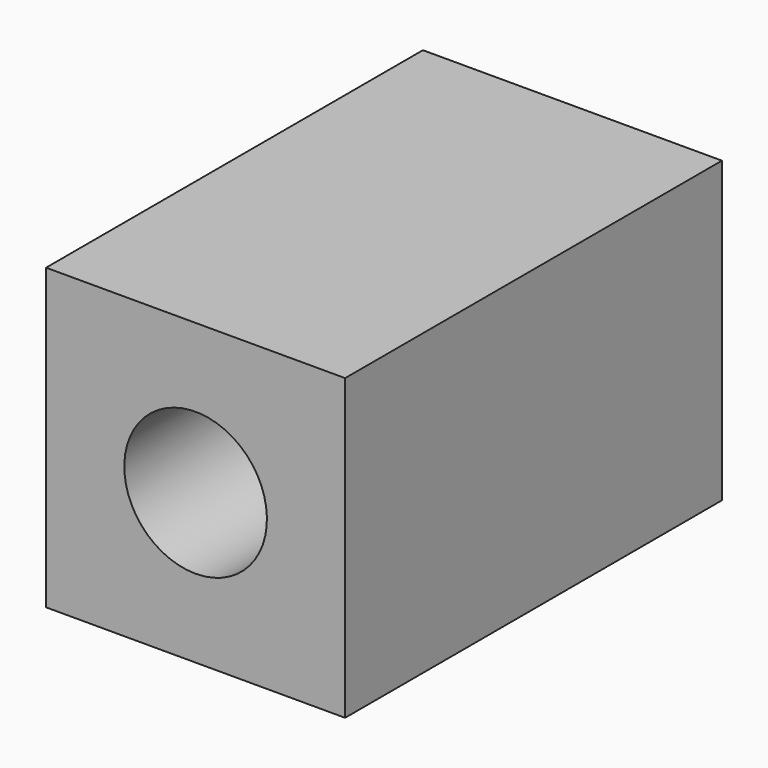
from build123d import *

# Parameters (mm, degrees)
F0_W     = 25.4
F0_H     = 50.8
F1_DEPTH = 25.4
F3_DEPTH = 25.4
F5_DEPTH = 21.59
F6_DEPTH = 25.4


with BuildPart() as f1:
    # F0 (on Front) → F1 (new body, symmetric)
    with BuildSketch(Plane.XZ):
        with Locations((-12.7, 0)):
            Rectangle(F0_W, F0_H)
        with Locations((12.7, 0)):
            Rectangle(F0_W, F0_H)
    extrude(amount=F1_DEPTH, both=True)

    # F2 (on face) → F3 (join)
    with BuildSketch(Plane.XZ.offset(25.4)):
        with BuildLine():
            ThreePointArc((0, -12.7), (-12.7, 0), (0, 12.7))
            Line((0, 12.7), (0, 25.4))
            Line((0, 25.4), (-25.4, 25.4))
            Line((-25.4, 25.4), (-25.4, -25.4))
            Line((-25.4, -25.4), (0, -25.4))
            Line((0, -25.4), (0, -12.7))
        make_face()
        with BuildLine():
            ThreePointArc((0, 12.7), (8.9802561211, 8.9802561211), (12.7, 0))
            ThreePointArc((12.7, 0), (8.9802561211, -8.9802561211), (0, -12.7))
            Line((0, -12.7), (0, -25.4))
            Line((0, -25.4), (25.4, -25.4))
            Line((25.4, -25.4), (25.4, 25.4))
            Line((25.4, 25.4), (0, 25.4))
            Line((0, 25.4), (0, 12.7))
        make_face()
        with BuildLine():
            Line((0, -12.7), (0, 12.7))
            ThreePointArc((0, 12.7), (-12.7, 0), (0, -12.7))
        make_face()
        with BuildLine():
            ThreePointArc((0, -12.7), (8.9802561211, -8.9802561211), (12.7, 0))
            ThreePointArc((12.7, 0), (8.9802561211, 8.9802561211), (0, 12.7))
            Line((0, 12.7), (0, -12.7))
        make_face()
    extrude(amount=F3_DEPTH)

    # F2 (on face) → F4 (revolve, cut)
    with BuildSketch(Plane.XZ.offset(25.4)):
        with BuildLine():
            Line((0, -12.7), (0, 12.7))
            ThreePointArc((0, 12.7), (-12.7, 0), (0, -12.7))
        make_face()
    revolve(axis=Axis((0, -25.4, -7.401805371), (0, 0, -1)), mode=Mode.SUBTRACT)

    # F5 (cut): a face of the model
    f5_faces = [f1.faces().sort_by_distance(p)[0] for p in [
        (0, -50.8, 0),
    ]]
    extrude(f5_faces, amount=-F5_DEPTH, mode=Mode.SUBTRACT)

    # F6 (add): a face of the model
    f6_faces = [f1.faces().sort_by_distance(p)[0] for p in [
        (-24.6815795103, -29.21, 0),
    ]]
    extrude(f6_faces, amount=F6_DEPTH)


solid = f1.part
